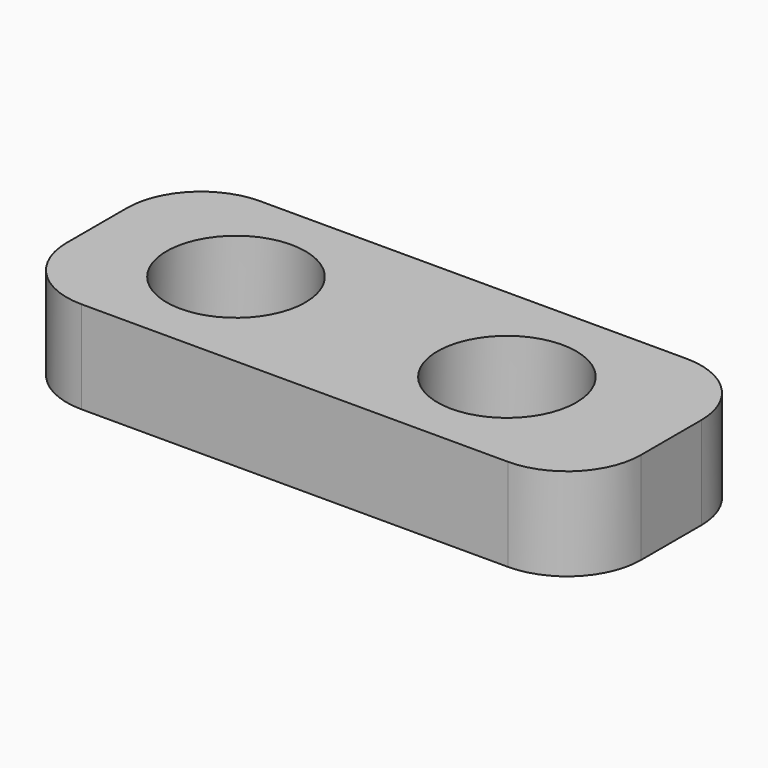
from build123d import *

# Parameters (mm, degrees)
F0_W     = 15.518552
F0_H     = 6.033636
F0_R     = 1.875
F1_DEPTH = 2.5
F2_R     = 2


with BuildPart() as f1:
    # F0 (on Top) → F1 (new body)
    with BuildSketch(Plane.XY):
        Rectangle(F0_W, F0_H)
        with Locations((-3.998888, 0)):
            Circle(F0_R, mode=Mode.SUBTRACT)
        with Locations((3.321112, 0)):
            Circle(F0_R, mode=Mode.SUBTRACT)
    extrude(amount=F1_DEPTH)

    # F2
    f2_edges = [f1.edges().sort_by_distance(p)[0] for p in [
        (7.759276, 3.016818, 1.25),
        (7.759276, -3.016818, 1.25),
        (-7.759276, 3.016818, 1.25),
        (-7.759276, -3.016818, 1.25),
    ]]
    fillet(f2_edges, radius=F2_R)


solid = f1.part
